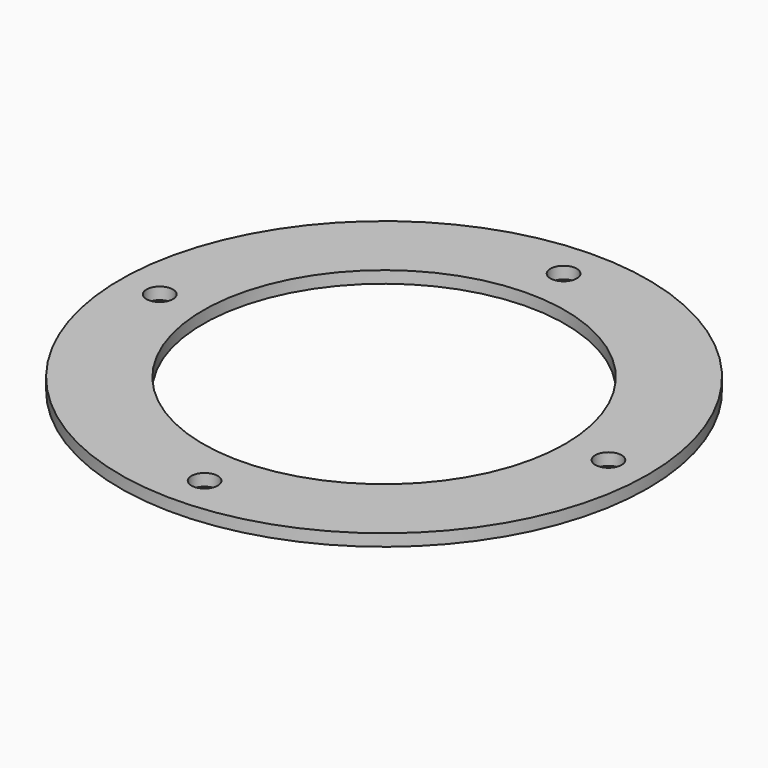
from build123d import *

# Parameters (mm, degrees)
F0_R     = 70
F0_R_2   = 3.5
F0_R_3   = 48
F1_DEPTH = 1.5875


with BuildPart() as f1:
    # F0 (on Top) → F1 (new body, symmetric)
    with BuildSketch(Plane.XY):
        Circle(F0_R)
        with Locations((0, -59.5)):
            Circle(F0_R_2, mode=Mode.SUBTRACT)
        with Locations((-59.5, 0)):
            Circle(F0_R_2, mode=Mode.SUBTRACT)
        Circle(F0_R_3, mode=Mode.SUBTRACT)
        with Locations((59.5, 0)):
            Circle(F0_R_2, mode=Mode.SUBTRACT)
        with Locations((0, 59.5)):
            Circle(F0_R_2, mode=Mode.SUBTRACT)
    extrude(amount=F1_DEPTH, both=True)


solid = f1.part
